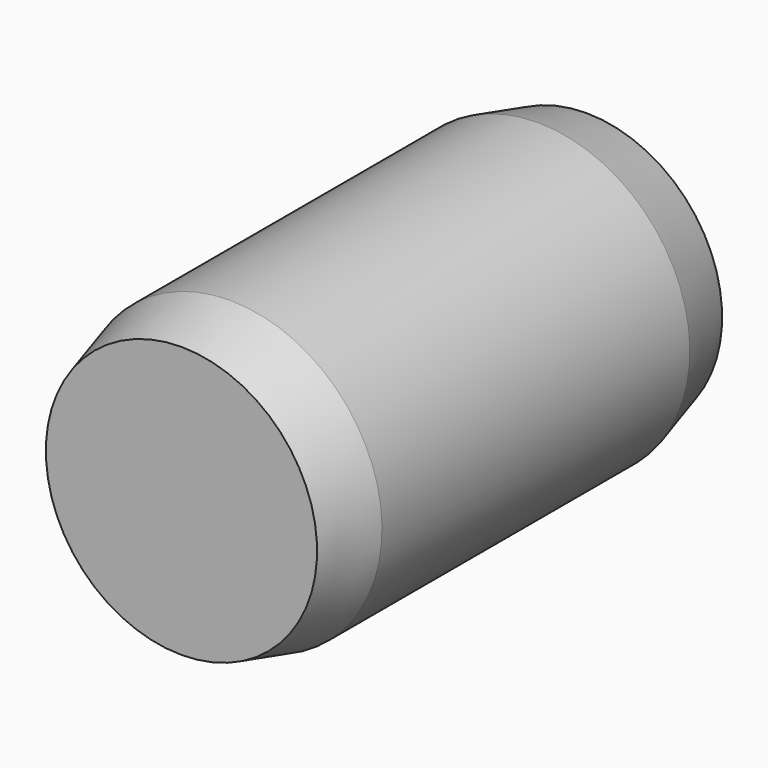
from build123d import *


with BuildPart() as part:
    # Sketch → Revolution (revolve)
    with BuildSketch(Plane.YZ):
        Polygon((0, 0), (0, 2.678461), (1.2, 3), (8.8, 3), (10, 2.678461), (10, 0), align=None)
    revolve(axis=Axis((0, 0, 0), (0, 1, 0)))


solid = part.part
